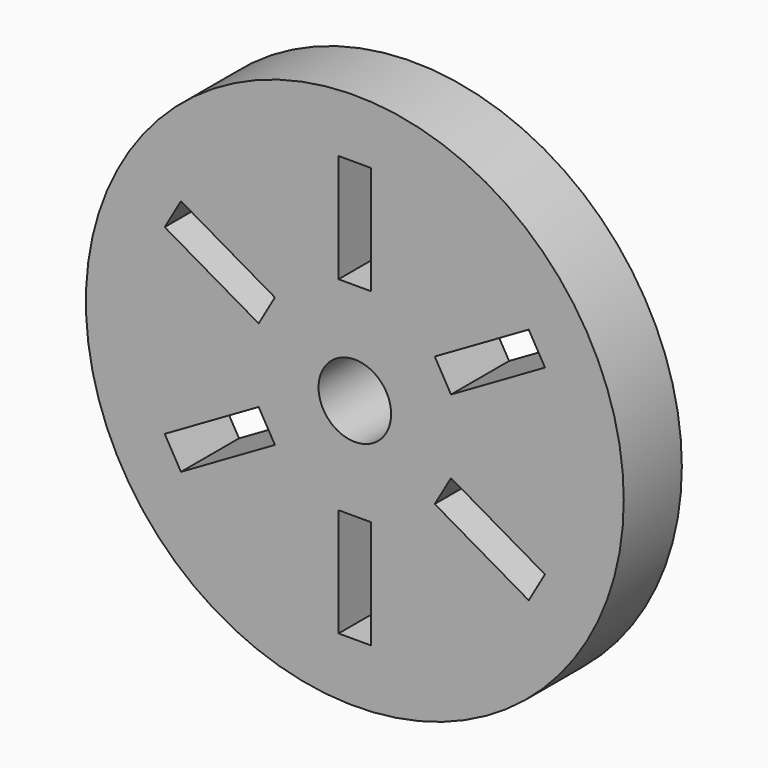
from build123d import *

# Parameters (mm, degrees)
F0_R     = 47.049259
F0_W     = 5.6896
F0_H     = 18.983845
F0_R_2   = 6.35
F1_DEPTH = 12.7


with BuildPart() as f1:
    # F0 (on Front) → F1 (new body)
    with BuildSketch(Plane.XZ):
        Circle(F0_R)
        Polygon((-33.26515, -15.920751), (-16.824658, -6.428829), (-13.979858, -11.356167), (-30.42035, -20.848089), align=None, mode=Mode.SUBTRACT)
        with Locations((0, -27.276919)):
            Rectangle(F0_W, F0_H, mode=Mode.SUBTRACT)
        Polygon((30.42035, -20.848089), (13.979858, -11.356167), (16.824658, -6.428829), (33.26515, -15.920751), align=None, mode=Mode.SUBTRACT)
        Polygon((-30.42035, 20.848089), (-13.979858, 11.356167), (-16.824658, 6.428829), (-33.26515, 15.920751), align=None, mode=Mode.SUBTRACT)
        Circle(F0_R_2, mode=Mode.SUBTRACT)
        Polygon((33.26515, 15.920751), (16.824658, 6.428829), (13.979858, 11.356167), (30.42035, 20.848089), align=None, mode=Mode.SUBTRACT)
        with Locations((0, 27.276919)):
            Rectangle(F0_W, F0_H, mode=Mode.SUBTRACT)
    extrude(amount=F1_DEPTH)


solid = f1.part
